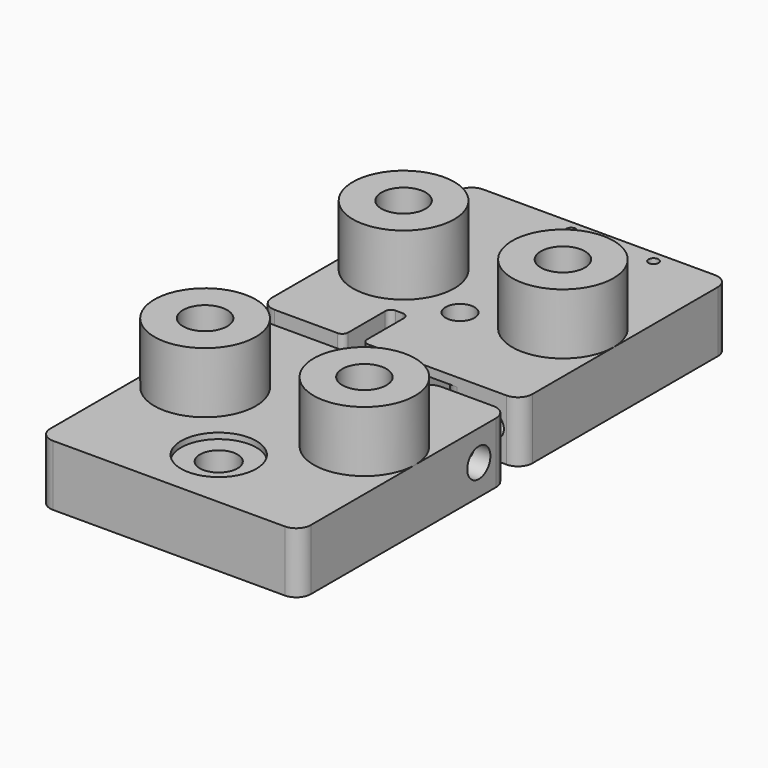
from build123d import *

# Parameters (mm, degrees)
F0_R      = 7.625
F0_R_2    = 2.4
F0_R_3    = 1.725
F0_R_4    = 6.5
F1_DEPTH  = 21
F2_R      = 5
F2_R_2    = 2.4
F3_DEPTH  = 17
F4_R      = 7.625
F4_R_2    = 17.488145
F5_DEPTH  = 21
F6_W      = 10
F6_H      = 15
F7_DEPTH  = 90.001
F9_R      = 4.125
F10_DEPTH = 30
F11_R     = 5
F4_R_3    = 13
F4_R_4    = 6.5
F12_DEPTH = 2
F13_R     = 2
F14_R     = 6.5
F14_R_2   = 7.625
F15_DEPTH = 21
F16_R     = 5
F17_R     = 13
F17_R_2   = 6.5
F18_DEPTH = 2
F19_R     = 17.5
F19_R_2   = 7.625
F20_DEPTH = 21
F21_R     = 2.4
F21_R_2   = 5
F22_DEPTH = 24
F23_DEPTH = 91.105044
F25_R     = 4.125
F24_R     = 4.125
F26_DEPTH = 30


with BuildPart() as f1:
    # F0 (on Top) → F1 (new body)
    with BuildSketch(Plane.XY):
        Polygon((-45, 50), (-45, -40), (-16.25, -40), (-16.25, -20), (-9.75, -20), (-9.75, -40), (45, -40), (45, 50), align=None)
        with Locations((-27.5, 0)):
            Circle(F0_R, mode=Mode.SUBTRACT)
        with Locations((0, -10)):
            Circle(F0_R_2, mode=Mode.SUBTRACT)
        with Locations((27.5, 0)):
            Circle(F0_R, mode=Mode.SUBTRACT)
        with Locations((-6.5, 46)):
            Circle(F0_R_3, mode=Mode.SUBTRACT)
        with Locations((0, 28.5)):
            Circle(F0_R_4, mode=Mode.SUBTRACT)
        with Locations((22, 46)):
            Circle(F0_R_3, mode=Mode.SUBTRACT)
    extrude(amount=F1_DEPTH)

    # F2 (on face) → F3 (cut)
    with BuildSketch(Plane.XY.offset(21)):
        with Locations((0, -10)):
            Circle(F2_R)
        with Locations((0, -10)):
            Circle(F2_R_2, mode=Mode.SUBTRACT)
    extrude(amount=-F3_DEPTH, mode=Mode.SUBTRACT)

    # F4 (on face) → F5 (join)
    with BuildSketch(Plane.XY.offset(21)):
        with BuildLine():
            ThreePointArc((-45, 0), (-27.5, -17.5), (-10, 0))
            ThreePointArc((-10, 0), (-27.5, 17.5), (-45, 0))
        make_face()
        with Locations((-27.5, 0)):
            Circle(F4_R, mode=Mode.SUBTRACT)
        with Locations((27.5, 0)):
            Circle(F4_R_2)
        with Locations((27.5, 0)):
            Circle(F4_R, mode=Mode.SUBTRACT)
    extrude(amount=F5_DEPTH)

    # F6 (on face) → F7 (cut, through all)
    with BuildSketch(Plane(origin=(0, 50, 0), x_dir=(-1, 0, 0), z_dir=(0, 1, 0))):
        with Locations((-13, 10.5)):
            Rectangle(F6_W, F6_H)
    extrude(amount=-F7_DEPTH, mode=Mode.SUBTRACT)

    # F9 (on face) → F10 (cut)
    with BuildSketch(Plane.XZ.offset(40)):
        with Locations((-35, 10.5)):
            Circle(F9_R)
        with Locations((35, 10.5)):
            Circle(F9_R)
    extrude(amount=-F10_DEPTH, mode=Mode.SUBTRACT)

    # F11
    f11_edges = [f1.edges().sort_by_distance(p)[0] for p in [
        (-45, -40, 10.5),
        (45, -40, 10.5),
        (45, 50, 10.5),
        (8, -40, 10.5),
        (18, -40, 10.5),
        (8, 50, 10.5),
        (18, 50, 10.5),
        (-45, 50, 10.5),
    ]]
    fillet(f11_edges, radius=F11_R)

    # F4 (on face) → F12 (cut)
    with BuildSketch(Plane.XY.offset(21)):
        with Locations((0, 28.5)):
            Circle(F4_R_3)
        with Locations((0, 28.5)):
            Circle(F4_R_4, mode=Mode.SUBTRACT)
    extrude(amount=-F12_DEPTH, mode=Mode.SUBTRACT)

    # F13
    f13_edges = [f1.edges().sort_by_distance(p)[0] for p in [
        (-16.25, -40, 10.5),
        (-9.75, -40, 10.5),
        (-9.75, -20, 10.5),
        (-16.25, -20, 10.5),
    ]]
    fillet(f13_edges, radius=F13_R)


with BuildPart() as f15:
    # F14 (on Top) → F15 (new body)
    with BuildSketch(Plane.XY):
        Polygon((46.104044, -137.032599), (46.104044, -47.032599), (18.104044, -47.032599), (18.104044, -72.032599), (10.104044, -72.032599), (10.104044, -47.032599), (-43.895956, -47.032599), (-43.895956, -137.032599), align=None)
        with Locations((1.104044, -115.532599)):
            Circle(F14_R, mode=Mode.SUBTRACT)
        with Locations((-26.395956, -87.032599)):
            Circle(F14_R_2, mode=Mode.SUBTRACT)
        with Locations((28.604044, -87.032599)):
            Circle(F14_R_2, mode=Mode.SUBTRACT)
    extrude(amount=F15_DEPTH)

    # F16
    f16_edges = [f15.edges().sort_by_distance(p)[0] for p in [
        (18.104044, -47.032599, 10.5),
        (-43.895956, -47.032599, 10.5),
        (10.104044, -47.032599, 10.5),
        (-43.895956, -137.032599, 10.5),
        (46.104044, -137.032599, 10.5),
        (46.104044, -47.032599, 10.5),
    ]]
    fillet(f16_edges, radius=F16_R)

    # F17 (on face) → F18 (cut)
    with BuildSketch(Plane.XY.offset(21)):
        with Locations((1.104044, -115.532599)):
            Circle(F17_R)
        with Locations((1.104044, -115.532599)):
            Circle(F17_R_2, mode=Mode.SUBTRACT)
    extrude(amount=-F18_DEPTH, mode=Mode.SUBTRACT)

    # F19 (on face) → F20 (join)
    with BuildSketch(Plane.XY.offset(21)):
        with Locations((28.604044, -87.032599)):
            Circle(F19_R)
        with Locations((28.604044, -87.032599)):
            Circle(F19_R_2, mode=Mode.SUBTRACT)
        with BuildLine():
            ThreePointArc((-43.895956, -87.032599), (-26.395956, -104.532599), (-8.895956, -87.032599))
            ThreePointArc((-8.895956, -87.032599), (-26.395956, -69.532599), (-43.895956, -87.032599))
        make_face()
        with Locations((-26.395956, -87.032599)):
            Circle(F19_R_2, mode=Mode.SUBTRACT)
    extrude(amount=F20_DEPTH)

    # F21 (on face) → F22 (cut)
    with BuildSketch(Plane.YZ.offset(46.104044)):
        with Locations((-59.532599, 10.5)):
            Circle(F21_R)
        with Locations((-59.532599, 10.5)):
            Circle(F21_R_2)
        with Locations((-59.532599, 10.5)):
            Circle(F21_R, mode=Mode.SUBTRACT)
    extrude(amount=-F22_DEPTH, mode=Mode.SUBTRACT)

    # F21 (on face) → F23 (cut, through all)
    with BuildSketch(Plane.YZ.offset(46.104044)):
        with Locations((-59.532599, 10.5)):
            Circle(F21_R)
    extrude(amount=-F23_DEPTH, mode=Mode.SUBTRACT)

    # F25 (on face) + F24 (on face) → F26 (cut)
    with BuildSketch(Plane(origin=(0, -47.032599, 0), x_dir=(-1, 0, 0), z_dir=(0, 1, 0))):
        with Locations((-36.104044, 10.5)):
            Circle(F25_R)
    with BuildSketch(Plane(origin=(0, -47.032599, 0), x_dir=(-1, 0, 0), z_dir=(0, 1, 0))):
        with Locations((33.895956, 10.5)):
            Circle(F24_R)
    extrude(amount=-F26_DEPTH, mode=Mode.SUBTRACT)


solid = Compound([f1.part, f15.part])
